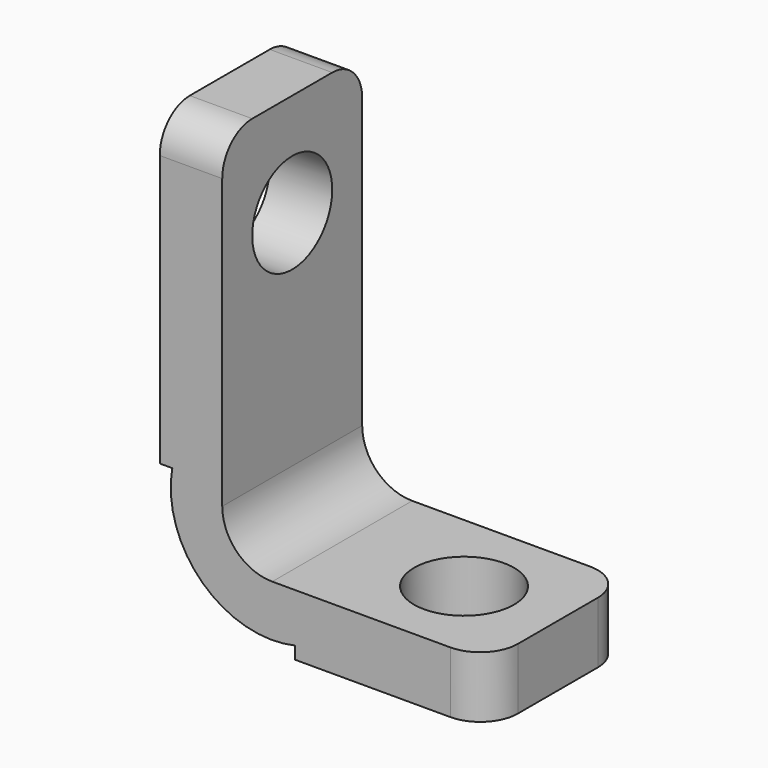
from build123d import *

# Parameters (mm, degrees)
PAD006_DEPTH    = 5.6
SKETCH008_R     = 1.6
POCKET_DEPTH    = 2
SKETCH009_R     = 1.6
POCKET001_DEPTH = 2
FILLET_R        = 1.2


with BuildPart() as part:
    # Sketch007 → Pad006 (new body)
    with BuildSketch(Plane.XZ):
        with BuildLine():
            Line((0, 4.120568), (0, 14))
            Line((2, 14), (0, 14))
            Line((2, 14), (2, 3.564131))
            ThreePointArc((2, 3.564131), (2.468629, 2.43276), (3.6, 1.964131))
            Line((3.6, 1.964131), (10.5, 1.964131))
            Line((10.5, 1.964131), (10.5, 0))
            Line((10.5, 0), (4.333415, 0))
            Line((4.333415, 0), (4.333415, 0.4))
            ThreePointArc((0.4, 4.120568), (1.368035, 1.204479), (4.333415, 0.4))
            Line((0, 4.120568), (0.4, 4.120568))
        make_face()
    extrude(amount=PAD006_DEPTH)

    # Sketch008 (on Face4 of Pad006) → Pocket (cut)
    with BuildSketch(Plane(origin=(2, 0, 0), x_dir=(0, 0, 1), z_dir=(1, 0, 0))):
        with Locations((10.7, 2.8)):
            Circle(SKETCH008_R)
    extrude(amount=-POCKET_DEPTH, mode=Mode.SUBTRACT)

    # Sketch009 (on Face11 of Pocket) → Pocket001 (cut)
    with BuildSketch(Plane(origin=(0, 0, 1.964131), x_dir=(-1, 0, 0), z_dir=(0, 0, 1))):
        with Locations((-7.5, 2.8)):
            Circle(SKETCH009_R)
    extrude(amount=-POCKET001_DEPTH, mode=Mode.SUBTRACT)

    # Fillet
    fillet_edges = [part.edges().sort_by_distance(p)[0] for p in [
        (1, 0, 14),
        (1, -5.6, 14),
        (10.5, -5.6, 0.982065),
        (10.5, 0, 0.982065),
    ]]
    fillet(fillet_edges, radius=FILLET_R)


with BuildPart() as part_1:
    # Body004 placement: moved
    add(part.part.moved(Location((1.6, -23, 0))))


solid = part_1.part
